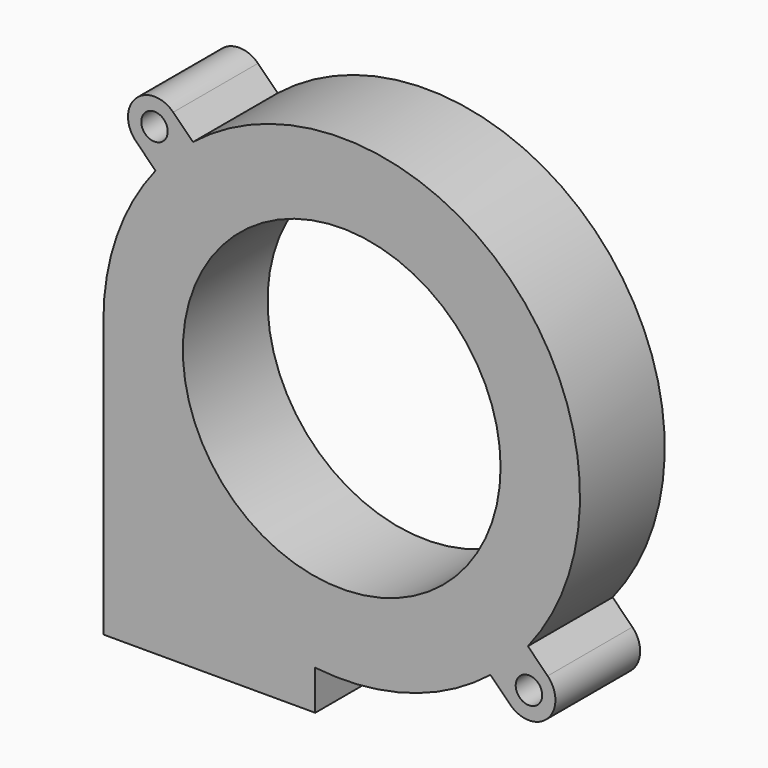
from build123d import *

# Parameters (mm, degrees)
F0_R     = 1.5875
F0_R_2   = 19.05
F1_DEPTH = 12.7


with BuildPart() as f1:
    # F0 (on Front) → F1 (new body)
    with BuildSketch(Plane.XZ):
        with BuildLine():
            Line((-3.175, -33.160563), (-3.175, -28.398063))
            ThreePointArc((-3.175, -28.398063), (7.934151, -27.451409), (17.835399, -22.325527))
            Line((17.835399, -22.325527), (20.205576, -24.695704))
            ThreePointArc((20.205576, -24.695704), (24.695704, -24.695704), (24.695704, -20.205576))
            Line((24.695704, -20.205576), (22.325527, -17.835399))
            ThreePointArc((22.325527, -17.835399), (20.205576, 20.205576), (-17.835399, 22.325527))
            Line((-17.835399, 22.325527), (-20.205576, 24.695704))
            ThreePointArc((-20.205576, 24.695704), (-24.695704, 24.695704), (-24.695704, 20.205576))
            Line((-24.695704, 20.205576), (-22.325527, 17.835399))
            ThreePointArc((-22.325527, 17.835399), (-26.967411, 9.449304), (-28.575, 0))
            Line((-28.575, 0), (-28.575, -33.160563))
            Line((-28.575, -33.160563), (-3.175, -33.160563))
        make_face()
        with Locations((22.45064, -22.45064)):
            Circle(F0_R, mode=Mode.SUBTRACT)
        with Locations((-22.45064, 22.45064)):
            Circle(F0_R, mode=Mode.SUBTRACT)
        Circle(F0_R_2, mode=Mode.SUBTRACT)
    extrude(amount=F1_DEPTH)


solid = f1.part
